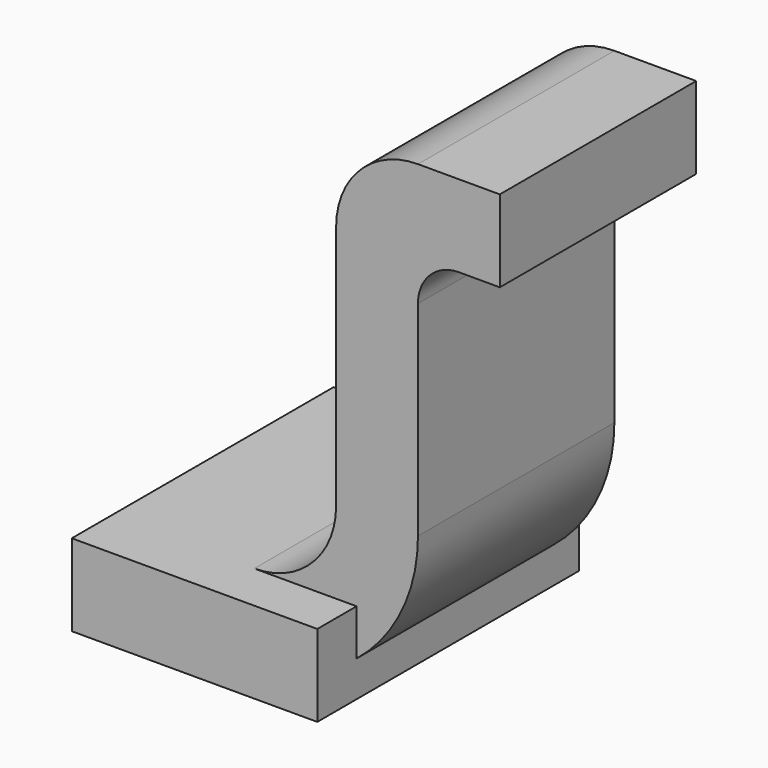
from build123d import *

# Parameters (mm, degrees)
BOX038_W                = 0.6
BOX038_H                = 0.8
BOX038_DEPTH            = 0.2
PAD003_DEPTH            = 0.6
BODY003_PLACEMENT_ANGLE = 180


with BuildPart() as kub038:
    # Box038 → Box038 (new body)
    with BuildSketch(Plane(origin=(-3.1, 0.75, 0), x_dir=(1, 0, 0), z_dir=(0, 0, 1))):
        with Locations((0.3, 0.4)):
            Rectangle(BOX038_W, BOX038_H)
    extrude(amount=BOX038_DEPTH)


with BuildPart() as fusion005:
    # Sketch003 → Pad003 (new body)
    with BuildSketch(Plane.XZ):
        with BuildLine():
            ThreePointArc((3.7, 1), (3.641421, 1.141421), (3.5, 1.2))
            Line((3.5, 1.2), (3.3, 1.2))
            Line((3.3, 1.2), (3.3, 1))
            Line((3.3, 1), (3.4, 1))
            ThreePointArc((3.5, 0.9), (3.470711, 0.970711), (3.4, 1))
            Line((3.5, 0.4), (3.5, 0.9))
            ThreePointArc((3.5, 0.4), (3.617157, 0.117157), (3.9, 0))
            Line((4, 0), (3.9, 0))
            Line((4, 0.2), (4, 0))
            Line((3.9, 0.2), (4, 0.2))
            ThreePointArc((3.7, 0.4), (3.758579, 0.258579), (3.9, 0.2))
            Line((3.7, 1), (3.7, 0.4))
        make_face()
    extrude(amount=PAD003_DEPTH)


with BuildPart() as fusion005_1:
    # Body003 placement: moved
    add(fusion005.part.moved(Location((1.15, 0.87, 0))).rotate(Axis((1.15, 0.87, 0), (0, 0, 1)), BODY003_PLACEMENT_ANGLE))

    # Fusion005: union Kub038
    add(kub038.part)


solid = fusion005_1.part
